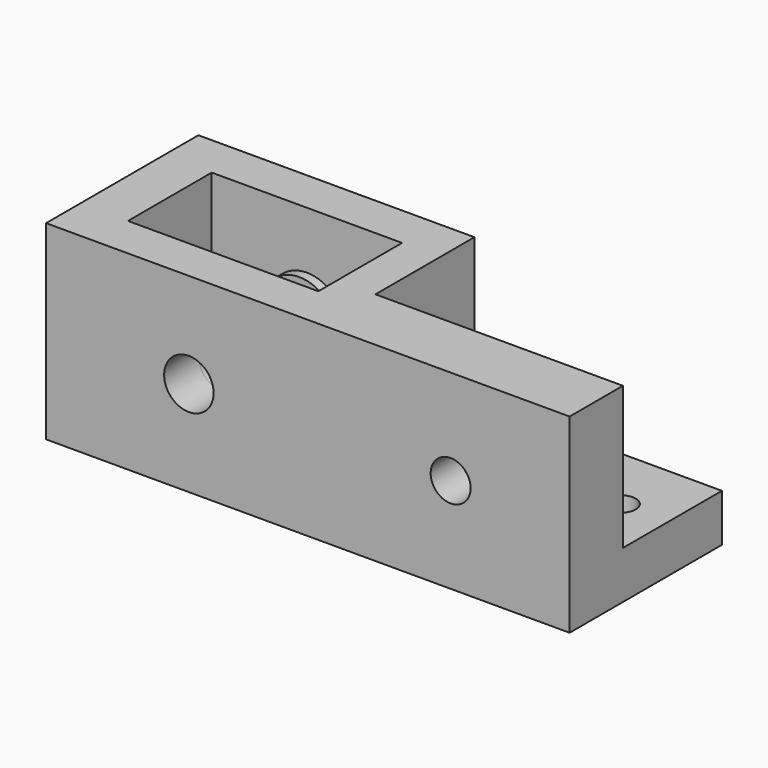
from build123d import *

# Parameters (mm, degrees)
SKETCH_W        = 55
SKETCH_H        = 20
SKETCH_R        = 1.55
SKETCH_W_2      = 20
SKETCH_H_2      = 11
PAD_DEPTH       = 10
SKETCH001_R     = 2.6
POCKET_DEPTH    = 5
SKETCH002_R     = 2.6
POCKET001_DEPTH = 5
SKETCH003_R     = 4
SKETCH003_R_2   = 2.6
PAD001_DEPTH    = 1
SKETCH004_R     = 4
SKETCH004_R_2   = 2.6
PAD002_DEPTH    = 1
SKETCH005_W     = 26
SKETCH005_H     = 15
POCKET002_DEPTH = 13
SKETCH006_R     = 2.1
POCKET003_DEPTH = 7
SKETCH007_R     = 3.55
SKETCH007_R_2   = 2.1
POCKET004_DEPTH = 3


with BuildPart() as part:
    # Sketch → Pad (new body, symmetric)
    with BuildSketch(Plane.XY):
        Rectangle(SKETCH_W, SKETCH_H)
        with Locations((7.5, 3)):
            Circle(SKETCH_R, mode=Mode.SUBTRACT)
        with Locations((22.5, 3)):
            Circle(SKETCH_R, mode=Mode.SUBTRACT)
        with Locations((-12.5, 0)):
            Rectangle(SKETCH_W_2, SKETCH_H_2, mode=Mode.SUBTRACT)
    extrude(amount=PAD_DEPTH, both=True)

    # Sketch001 → Pocket (cut)
    with BuildSketch(Plane.XZ.offset(-5.5)):
        with Locations((-12.5, 0)):
            Circle(SKETCH001_R)
    extrude(amount=-POCKET_DEPTH, mode=Mode.SUBTRACT)

    # Sketch002 → Pocket001 (cut)
    with BuildSketch(Plane(origin=(0, -5.5, 0), x_dir=(-1, 0, 0), z_dir=(0, 1, 0))):
        with Locations((12.5, 0)):
            Circle(SKETCH002_R)
    extrude(amount=-POCKET001_DEPTH, mode=Mode.SUBTRACT)

    # Sketch003 → Pad001 (new body)
    with BuildSketch(Plane(origin=(0, -5.5, 0), x_dir=(-1, 0, 0), z_dir=(0, 1, 0))):
        with Locations((12.5, 0)):
            Circle(SKETCH003_R)
        with Locations((12.5, 0)):
            Circle(SKETCH003_R_2, mode=Mode.SUBTRACT)
    extrude(amount=PAD001_DEPTH)

    # Sketch004 → Pad002 (new body)
    with BuildSketch(Plane.XZ.offset(-5.5)):
        with Locations((-12.5, 0)):
            Circle(SKETCH004_R)
        with Locations((-12.5, 0)):
            Circle(SKETCH004_R_2, mode=Mode.SUBTRACT)
    extrude(amount=PAD002_DEPTH)

    # Sketch005 → Pocket002 (cut)
    with BuildSketch(Plane(origin=(0, 10, 0), x_dir=(-1, 0, 0), z_dir=(0, 1, 0))):
        with Locations((-14.5, 2.5)):
            Rectangle(SKETCH005_W, SKETCH005_H)
    extrude(amount=-POCKET002_DEPTH, mode=Mode.SUBTRACT)

    # Sketch006 → Pocket003 (cut)
    with BuildSketch(Plane(origin=(0, -3, 0), x_dir=(-1, 0, 0), z_dir=(0, 1, 0))):
        with Locations((-15, 0)):
            Circle(SKETCH006_R)
    extrude(amount=-POCKET003_DEPTH, mode=Mode.SUBTRACT)

    # Sketch007 → Pocket004 (cut)
    with BuildSketch(Plane(origin=(0, -3, 0), x_dir=(-1, 0, 0), z_dir=(0, 1, 0))):
        with Locations((-15, 0)):
            Circle(SKETCH007_R)
        with Locations((-15, 0)):
            Circle(SKETCH007_R_2, mode=Mode.SUBTRACT)
    extrude(amount=-POCKET004_DEPTH, mode=Mode.SUBTRACT)


solid = part.part
